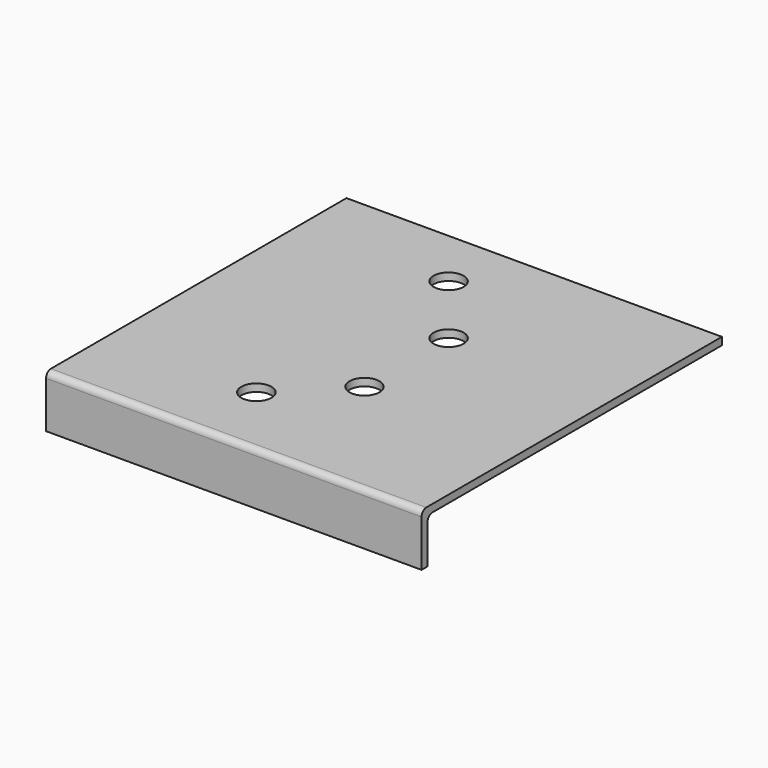
from build123d import *

# Parameters (mm, degrees)
F0_W     = 317.5
F0_H     = 317.5
F1_DEPTH = 6.35
F2_W     = 317.5
F2_H     = 6.35
F3_DEPTH = 38.1
F4_R     = 5.08
F5_R     = 12.7
F6_DEPTH = 25.4


with BuildPart() as f1:
    # F0 (on Top) → F1 (new body)
    with BuildSketch(Plane.XY):
        with Locations((158.75, 172.529013)):
            Rectangle(F0_W, F0_H)
    extrude(amount=F1_DEPTH)

    # F2 (on face) → F3 (join)
    with BuildSketch(Plane(origin=(0, 0, 0), x_dir=(1, 0, 0), z_dir=(0, 0, -1))):
        with Locations((158.75, -16.954013)):
            Rectangle(F2_W, F2_H)
    extrude(amount=F3_DEPTH)

    # F4
    f4_edges = [f1.edges().sort_by_distance(p)[0] for p in [
        (158.75, 13.779013, 6.35),
        (158.75, 20.129013, 0),
    ]]
    fillet(f4_edges, radius=F4_R)

    # F5 (on face) → F6 (cut)
    with BuildSketch(Plane.XY.offset(6.35)):
        with Locations((127, 77.279013)):
            Circle(F5_R)
        with Locations((177.8, 128.079013)):
            Circle(F5_R)
        with Locations((177.8, 216.979013)):
            Circle(F5_R)
        with Locations((127, 280.479013)):
            Circle(F5_R)
    extrude(amount=-F6_DEPTH, mode=Mode.SUBTRACT)


solid = f1.part
